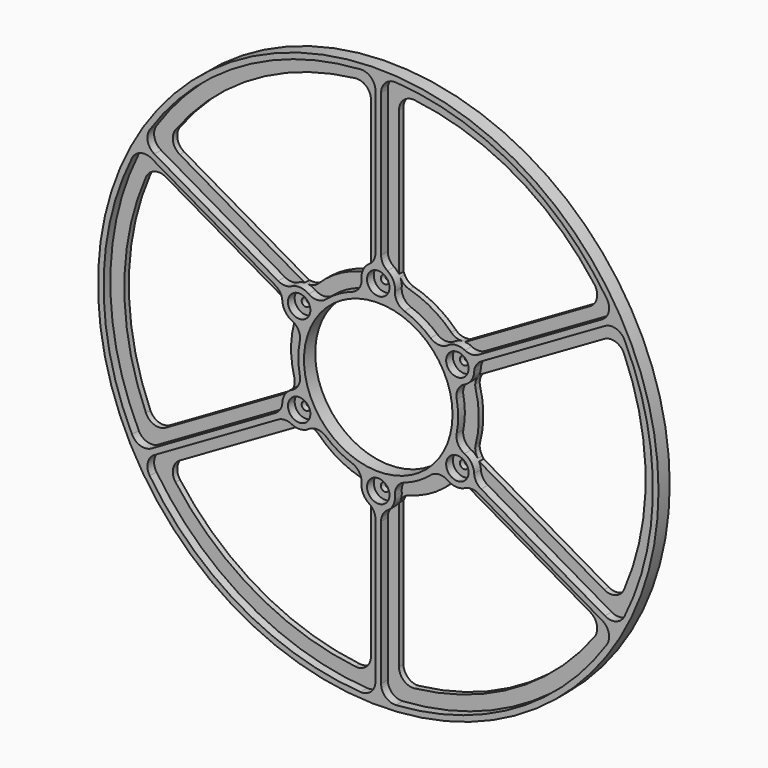
from build123d import *

# Parameters (mm, degrees)
F0_R      = 100
F0_R_2    = 93
F1_DEPTH  = 2
F2_R      = 33.5
F2_R_2    = 26.5
F3_DEPTH  = 2
F4_R      = 100
F4_R_2    = 98
F5_DEPTH  = 5
F6_R      = 28.5
F6_R_2    = 26.5
F7_DEPTH  = 5
F8_W      = 10
F8_H      = 63.5320267737
F9_DEPTH  = 2
F10_W     = 2
F10_H     = 61.6997463219
F11_DEPTH = 5
F12_R     = 6
F12_R_2   = 4
F13_DEPTH = 5
F15_R     = 1.5
F16_DEPTH = 5.001
F17_R     = 5


with BuildPart() as f1:
    # F0 (on Front) → F1 (new body)
    with BuildSketch(Plane.XZ):
        Circle(F0_R)
        Circle(F0_R_2, mode=Mode.SUBTRACT)
    extrude(amount=F1_DEPTH)

    # F4 (on Front) → F5 (join)
    with BuildSketch(Plane.XZ):
        Circle(F4_R)
        Circle(F4_R_2, mode=Mode.SUBTRACT)
    extrude(amount=F5_DEPTH)


with BuildPart() as f3:
    # F2 (on Front) → F3 (new body)
    with BuildSketch(Plane.XZ):
        Circle(F2_R)
        Circle(F2_R_2, mode=Mode.SUBTRACT)
    extrude(amount=F3_DEPTH)

    # F6 (on Front) → F7 (join)
    with BuildSketch(Plane.XZ):
        Circle(F6_R)
        Circle(F6_R_2, mode=Mode.SUBTRACT)
    extrude(amount=F7_DEPTH)



with BuildPart() as f9:
    # F8 (on Front) → F9 (new body)
    with BuildSketch(Plane.XZ):
        with Locations((0, 63.4341267869)):
            Rectangle(F8_W, F8_H)
    extrude(amount=F9_DEPTH)


with BuildPart() as f9b:
    # F8 (on Front) → F9, piece 2 (new body)
    with BuildSketch(Plane.XZ):
        Polygon((-79.9457398343, 51.9301971058), (-84.9457398343, 43.269943068), (-29.9253906943, 11.5039296811), (-24.9253906943, 20.1641837189), align=None)
    extrude(amount=F9_DEPTH)


with BuildPart() as f9c:
    # F8 (on Front) → F9, piece 3 (new body)
    with BuildSketch(Plane.XZ):
        Polygon((-84.9457398343, -43.269943068), (-79.9457398343, -51.9301971058), (-24.9253906943, -20.1641837189), (-29.9253906943, -11.5039296811), align=None)
    extrude(amount=F9_DEPTH)


with BuildPart() as f9d:
    # F8 (on Front) → F9, piece 4 (new body)
    with BuildSketch(Plane.XZ):
        with Locations((0, -63.4341267869)):
            Rectangle(F8_W, F8_H)
    extrude(amount=F9_DEPTH)


with BuildPart() as f9e:
    # F8 (on Front) → F9, piece 5 (new body)
    with BuildSketch(Plane.XZ):
        Polygon((79.9457398343, -51.9301971058), (84.9457398343, -43.269943068), (29.9253906943, -11.5039296811), (24.9253906943, -20.1641837189), align=None)
    extrude(amount=F9_DEPTH)


with BuildPart() as f9f:
    # F8 (on Front) → F9, piece 6 (new body)
    with BuildSketch(Plane.XZ):
        Polygon((84.9457398343, 43.269943068), (79.9457398343, 51.9301971058), (24.9253906943, 20.1641837189), (29.9253906943, 11.5039296811), align=None)
    extrude(amount=F9_DEPTH)


with BuildPart() as f11:
    # F10 (on Front) → F11 (new body)
    with BuildSketch(Plane.XZ):
        with Locations((0, 67.7655385807)):
            Rectangle(F10_W, F10_H)
    extrude(amount=F11_DEPTH)


with BuildPart() as f11b:
    # F10 (on Front) → F11, piece 2 (new body)
    with BuildSketch(Plane.XZ):
        Polygon((-31.4699040511, 19.3238581137), (-84.903451773, 50.1737312746), (-85.903451773, 48.4416804671), (-32.4699040511, 17.5918073061), align=None)
    extrude(amount=F11_DEPTH)


with BuildPart() as f11c:
    # F10 (on Front) → F11, piece 3 (new body)
    with BuildSketch(Plane.XZ):
        Polygon((-32.4699040511, -17.5918073061), (-85.903451773, -48.4416804671), (-84.903451773, -50.1737312746), (-31.4699040511, -19.3238581137), align=None)
    extrude(amount=F11_DEPTH)


with BuildPart() as f11d:
    # F10 (on Front) → F11, piece 4 (new body)
    with BuildSketch(Plane.XZ):
        with Locations((0, -67.7655385807)):
            Rectangle(F10_W, F10_H)
    extrude(amount=F11_DEPTH)


with BuildPart() as f11e:
    # F10 (on Front) → F11, piece 5 (new body)
    with BuildSketch(Plane.XZ):
        Polygon((31.4699040511, -19.3238581137), (84.903451773, -50.1737312746), (85.903451773, -48.4416804671), (32.4699040511, -17.5918073061), align=None)
    extrude(amount=F11_DEPTH)


with BuildPart() as f11f:
    # F10 (on Front) → F11, piece 6 (new body)
    with BuildSketch(Plane.XZ):
        Polygon((32.4699040511, 17.5918073061), (85.903451773, 48.4416804671), (84.903451773, 50.1737312746), (31.4699040511, 19.3238581137), align=None)
    extrude(amount=F11_DEPTH)


with BuildPart() as f3_1:
    add(f3.part)

    add(f9.part)  # F13 merges F9

    add(f9b.part)  # F13 merges F9b

    add(f9c.part)  # F13 merges F9c

    add(f9d.part)  # F13 merges F9d

    add(f9e.part)  # F13 merges F9e

    add(f9f.part)  # F13 merges F9f

    add(f11.part)  # F13 merges F11

    add(f11b.part)  # F13 merges F11b

    add(f11c.part)  # F13 merges F11c

    add(f11d.part)  # F13 merges F11d

    add(f11e.part)  # F13 merges F11e

    add(f11f.part)  # F13 merges F11f
    # F12 (on Front) → F13 (join)
    with BuildSketch(Plane.XZ):
        with Locations((0, 32.5932279229)):
            Circle(F12_R)
        with Locations((0, 32.5932279229)):
            Circle(F12_R_2, mode=Mode.SUBTRACT)
        with Locations((-28.2265633726, 16.2966139615)):
            Circle(F12_R)
        with Locations((-28.2265633726, 16.2966139615)):
            Circle(F12_R_2, mode=Mode.SUBTRACT)
        with Locations((-28.2265633726, -16.2966139615)):
            Circle(F12_R)
        with Locations((-28.2265633726, -16.2966139615)):
            Circle(F12_R_2, mode=Mode.SUBTRACT)
        with Locations((0, -32.5932279229)):
            Circle(F12_R)
        with Locations((0, -32.5932279229)):
            Circle(F12_R_2, mode=Mode.SUBTRACT)
        with Locations((28.2265633726, -16.2966139615)):
            Circle(F12_R)
        with Locations((28.2265633726, -16.2966139615)):
            Circle(F12_R_2, mode=Mode.SUBTRACT)
        with Locations((28.2265633726, 16.2966139615)):
            Circle(F12_R)
        with Locations((28.2265633726, 16.2966139615)):
            Circle(F12_R_2, mode=Mode.SUBTRACT)
    extrude(amount=F13_DEPTH)

    # F14: union F1
    add(f1.part)

    # F15 (on Front) → F16 (cut, through all)
    with BuildSketch(Plane.XZ):
        with Locations((0, 32.5932279229)):
            Circle(F15_R)
        with Locations((-28.2265633726, 16.2966139615)):
            Circle(F15_R)
        with Locations((-28.2265633726, -16.2966139615)):
            Circle(F15_R)
        with Locations((0, -32.5932279229)):
            Circle(F15_R)
        with Locations((28.2265633726, -16.2966139615)):
            Circle(F15_R)
        with Locations((28.2265633726, 16.2966139615)):
            Circle(F15_R)
    extrude(amount=F16_DEPTH, mode=Mode.SUBTRACT)

    # F17
    f17_edges = [f3_1.edges().sort_by_distance(p)[0] for p in [
        (1, -3.5, 38.509308),
        (4.091622, -3.5, 28.204763),
        (-4.091622, -3.5, 28.204763),
        (5.988758, -1, 32.960352),
        (-5.988758, -1, 32.960352),
        (-1, -3.5, 38.509308),
        (1, -3.5, 97.994898),
        (-1, -3.5, 97.994898),
        (25.550123, -1, 21.666592),
        (31.538881, -1, 11.293759),
        (22.38023, -3.5, 17.64583),
        (26.471852, -3.5, 10.558933),
        (33.850039, -3.5, 18.388628),
        (32.850039, -3.5, 20.120679),
        (22.38023, -3.5, -17.64583),
        (26.471852, -3.5, -10.558933),
        (33.850039, -3.5, -18.388628),
        (25.550123, -1, -21.666592),
        (31.538881, -1, -11.293759),
        (32.850039, -3.5, -20.120679),
        (4.091622, -3.5, -28.204763),
        (-4.091622, -3.5, -28.204763),
        (5.988758, -1, -32.960352),
        (-5.988758, -1, -32.960352),
        (1, -3.5, -38.509308),
        (-1, -3.5, -38.509308),
        (-22.38023, -3.5, -17.64583),
        (-26.471852, -3.5, -10.558933),
        (-25.550123, -1, -21.666592),
        (-31.538881, -1, -11.293759),
        (-32.850039, -3.5, -20.120679),
        (-33.850039, -3.5, -18.388628),
        (-26.471852, -3.5, 10.558933),
        (-22.38023, -3.5, 17.64583),
        (-31.538881, -1, 11.293759),
        (-25.550123, -1, 21.666592),
        (-33.850039, -3.5, 18.388628),
        (-32.850039, -3.5, 20.120679),
        (-1, -3.5, -97.994898),
        (-5, -1, -92.865494),
        (1, -3.5, -97.994898),
        (5, -1, -92.865494),
        (84.366071, -3.5, -49.863474),
        (77.923877, -1, -50.762874),
        (85.366071, -3.5, -48.131424),
        (82.923877, -1, -42.10262),
        (85.366071, -3.5, 48.131424),
        (82.923877, -1, 42.10262),
        (84.366071, -3.5, 49.863474),
        (77.923877, -1, 50.762874),
        (5, -1, 92.865494),
        (-5, -1, 92.865494),
        (-77.923877, -1, 50.762874),
        (-84.366071, -3.5, 49.863474),
        (-82.923877, -1, 42.10262),
        (-85.366071, -3.5, 48.131424),
        (-82.923877, -1, -42.10262),
        (-85.366071, -3.5, -48.131424),
        (-77.923877, -1, -50.762874),
        (-84.366071, -3.5, -49.863474),
    ]]
    fillet(f17_edges, radius=F17_R)


solid = f3_1.part
